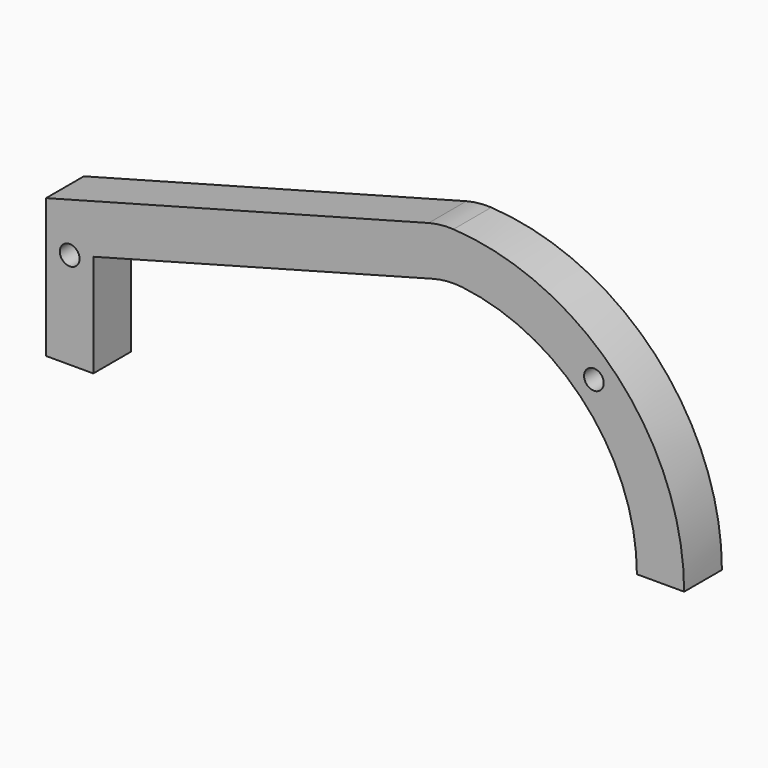
from build123d import *

# Parameters (mm, degrees)
F0_R     = 3.175
F1_DEPTH = 15.24


with BuildPart() as f1:
    # F0 (on Front) → F1 (new body)
    with BuildSketch(Plane.XZ):
        with BuildLine():
            Line((63.648045, 0), (78.888045, 0))
            ThreePointArc((78.888045, 0), (57.337736, 54.182171), (4.460859, 78.761821))
            ThreePointArc((4.460859, 78.761821), (0.422818, 78.66886), (-3.549431, 77.936978))
            Line((-3.549431, 77.936978), (-127, 44.858498))
            Line((-127, 44.858498), (-127, 0))
            Line((-127, 0), (-111.76, 0))
            Line((-111.76, 0), (-111.76, 33.164434))
            Line((-111.76, 33.164434), (-2.172128, 62.528416))
            ThreePointArc((-2.172128, 62.528416), (2.543544, 63.325828), (7.3251, 63.225126))
            ThreePointArc((7.3251, 63.225126), (47.525267, 42.337013), (63.648045, 0))
        make_face()
        with Locations((-119.38, 31.122661)):
            Circle(F0_R, mode=Mode.SUBTRACT)
        with Locations((49.773632, 50.8)):
            Circle(F0_R, mode=Mode.SUBTRACT)
    extrude(amount=F1_DEPTH)


solid = f1.part
